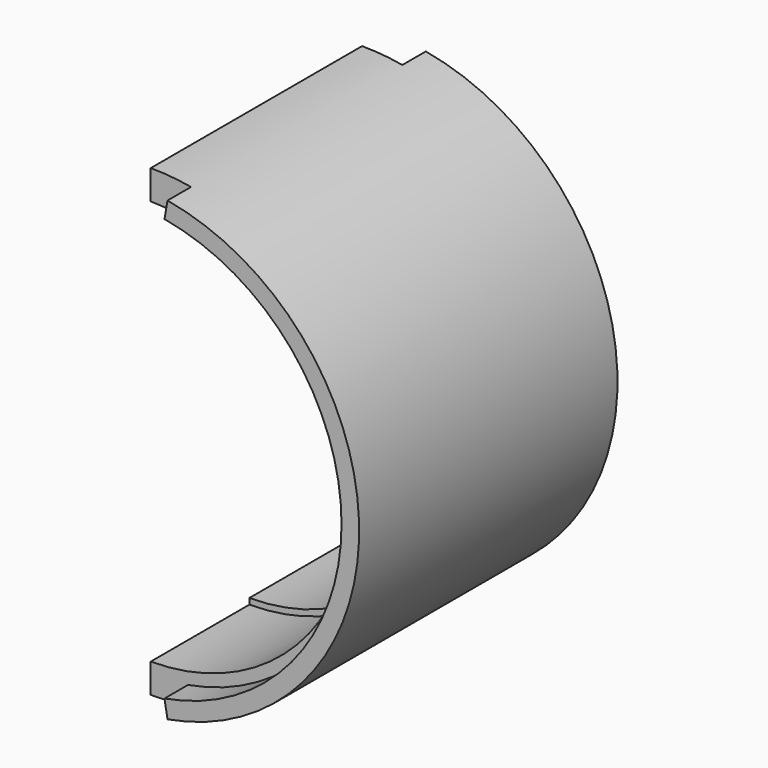
from build123d import *

# Parameters (mm, degrees)
F1_DEPTH = 55
F3_DEPTH = 5
F5_DEPTH = 5
F6_R     = 34.5
F6_R_2   = 33.5
F7_DEPTH = 26


with BuildPart() as f1:
    # F0 (on Front) → F1 (new body)
    with BuildSketch(Plane.XZ):
        with BuildLine():
            Line((0, -33.5), (0, -39.5))
            ThreePointArc((0, -39.5), (39.5, 0), (0, 39.5))
            Line((0, 39.5), (0, 33.5))
            ThreePointArc((0, 33.5), (33.5, 0), (0, -33.5))
        make_face()
    extrude(amount=F1_DEPTH)

    # F2 (on face) → F3 (cut)
    with BuildSketch(Plane.XZ.offset(55)):
        with BuildLine():
            Line((6.859103, -38.899906), (6.338158, -35.945483))
            ThreePointArc((6.338158, -35.945483), (36.5, 0), (6.338158, 35.945483))
            Line((6.338158, 35.945483), (6.859103, 38.899906))
            ThreePointArc((6.859103, 38.899906), (3.442652, 39.349691), (0, 39.5))
            Line((0, 39.5), (0, 33.5))
            ThreePointArc((0, 33.5), (33.5, 0), (0, -33.5))
            Line((0, -33.5), (0, -39.5))
            ThreePointArc((0, -39.5), (3.442652, -39.349691), (6.859103, -38.899906))
        make_face()
    extrude(amount=-F3_DEPTH, mode=Mode.SUBTRACT)

    # F4 (on face) → F5 (cut)
    with BuildSketch(Plane(origin=(0, 0, 0), x_dir=(-1, 0, 0), z_dir=(0, 1, 0))):
        with BuildLine():
            Line((-6.859103, 38.899906), (-6.338158, 35.945483))
            ThreePointArc((-6.338158, 35.945483), (-36.5, 0), (-6.338158, -35.945483))
            Line((-6.338158, -35.945483), (-6.859103, -38.899906))
            ThreePointArc((-6.859103, -38.899906), (-3.442652, -39.349691), (0, -39.5))
            Line((0, -39.5), (0, -33.5))
            ThreePointArc((0, -33.5), (-33.5, 0), (0, 33.5))
            Line((0, 33.5), (0, 39.5))
            ThreePointArc((0, 39.5), (-3.442652, 39.349691), (-6.859103, 38.899906))
        make_face()
    extrude(amount=-F5_DEPTH, mode=Mode.SUBTRACT)

    # F6 (on face) → F7 (cut)
    with BuildSketch(Plane.XZ.offset(55)):
        Circle(F6_R)
        Circle(F6_R_2, mode=Mode.SUBTRACT)
    extrude(amount=-F7_DEPTH, mode=Mode.SUBTRACT)


solid = f1.part
